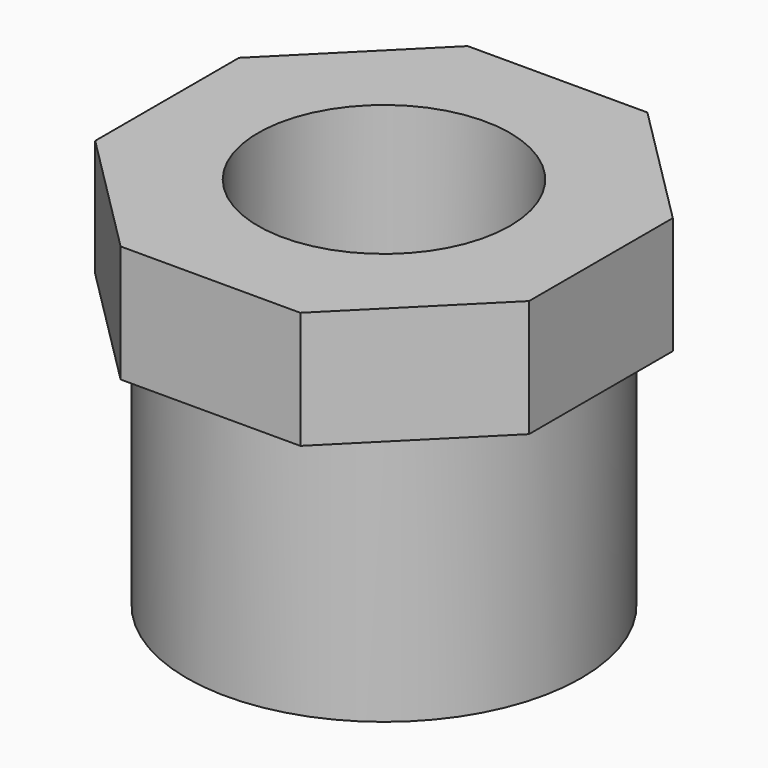
from build123d import *

# Parameters (mm, degrees)
OBJ1_R     = 10.668
OBJ1_DEPTH = 19.84375
OBJ2     = 7.6454
OBJ3 = 31.75
BOX001_W               = 36.7411
BOX001_H               = 36.7411
BOX001_DEPTH           = 9.921875
BOX001_PLACEMENT_ANGLE = 45
BOX_W                  = 36.7411
BOX_H                  = 36.7411
BOX_DEPTH              = 9.921875
OBJ4        = 16.7005
OBJ5    = 31.75


with BuildPart() as obj1:
    # obj1 → obj1 (new body)
    with BuildSketch(Plane.XY.offset(11.90625)):
        Circle(OBJ1_R)
    extrude(amount=OBJ1_DEPTH)


with BuildPart() as cone:
    # Cone → Cone (revolve)
    with BuildSketch(Plane.XZ):
        Polygon((0, 0), (12.17295, 0), (7.6454, 5.953125), (0, 5.953125), align=None)
    revolve(axis=Axis((0, 0, 0), (0, 0, 1)))


with BuildPart() as fusion001:
    with BuildSketch(Plane.XY):
        Circle(OBJ2)
    extrude(amount=OBJ3)

    # Fusion001: union obj1, Cone
    add(obj1.part)
    add(cone.part)


with BuildPart() as box001:
    # Box001 → Box001 (new body)
    with BuildSketch(Plane.XY):
        with Locations((18.37055, 18.37055)):
            Rectangle(BOX001_W, BOX001_H)
    extrude(amount=BOX001_DEPTH)


with BuildPart() as box001_1:
    # Box001 placement: moved
    add(box001.part.moved(Location((0, -25.979881, 0))).rotate(Axis((0, -25.979881, 0), (0, 0, 1)), BOX001_PLACEMENT_ANGLE))


with BuildPart() as common:
    # Box → Box (new body)
    with BuildSketch(Plane(origin=(-18.37055, -18.37055, 0), x_dir=(1, 0, 0), z_dir=(0, 0, 1))):
        with Locations((18.37055, 18.37055)):
            Rectangle(BOX_W, BOX_H)
    extrude(amount=BOX_DEPTH)

    # Common: intersect Box001
    add(box001_1.part, mode=Mode.INTERSECT)


with BuildPart() as common_1:
    # Common placement: moved
    add(common.part.moved(Location((0, 0, 21.828125))))


with BuildPart() as cut:
    with BuildSketch(Plane.XY):
        Circle(OBJ4)
    extrude(amount=OBJ5)

    # Fusion: union Common
    add(common_1.part)

    # Cut: cut Fusion001
    add(fusion001.part, mode=Mode.SUBTRACT)


solid = cut.part
